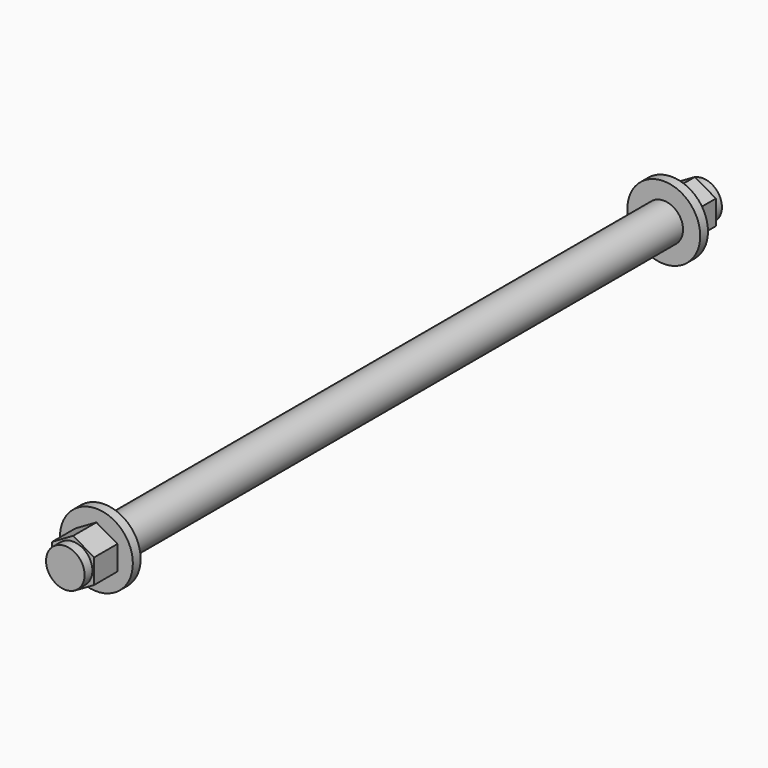
from build123d import *

# Parameters (mm, degrees)
SKETCH013_R     = 3.96875
PAD009_DEPTH    = 164
SKETCH014_R     = 7.5
PAD010_DEPTH    = 10
SKETCH015_R     = 7.5
POCKET003_DEPTH = 8
SKETCH016_R     = 7.5
SKETCH016_R_2   = 3.96875
POCKET004_DEPTH = 2
SKETCH017_R     = 7.5
PAD011_DEPTH    = 10
SKETCH018_R     = 7.5
POCKET005_DEPTH = 8
SKETCH019_R     = 7.5
SKETCH019_R_2   = 3.96875
POCKET006_DEPTH = 2


with BuildPart() as part:
    # Sketch013 → Pad009 (new body)
    with BuildSketch(Plane(origin=(500, 82, 56), x_dir=(1, 0, 0), z_dir=(0, -1, 0))):
        Circle(SKETCH013_R)
    extrude(amount=PAD009_DEPTH)

    # Sketch014 → Pad010 (new body)
    with BuildSketch(Plane(origin=(500, 82, 56), x_dir=(1, 0, 0), z_dir=(0, 1, 0))):
        Circle(SKETCH014_R)
    extrude(amount=-PAD010_DEPTH)

    # Sketch015 → Pocket003 (cut)
    with BuildSketch(Plane(origin=(500, 82, 56), x_dir=(1, 0, 0), z_dir=(0, 1, 0))):
        Circle(SKETCH015_R)
        Polygon((0, 5), (-4.330127, 2.5), (-4.330127, -2.5), (0, -5), (4.330127, -2.5), (4.330127, 2.5), align=None, mode=Mode.SUBTRACT)
    extrude(amount=-POCKET003_DEPTH, mode=Mode.SUBTRACT)

    # Sketch016 → Pocket004 (cut)
    with BuildSketch(Plane(origin=(500, 82, 56), x_dir=(1, 0, 0), z_dir=(0, 1, 0))):
        Circle(SKETCH016_R)
        Circle(SKETCH016_R_2, mode=Mode.SUBTRACT)
    extrude(amount=-POCKET004_DEPTH, mode=Mode.SUBTRACT)

    # Sketch017 → Pad011 (new body)
    with BuildSketch(Plane(origin=(500, -82, 56), x_dir=(1, 0, 0), z_dir=(0, -1, 0))):
        Circle(SKETCH017_R)
    extrude(amount=-PAD011_DEPTH)

    # Sketch018 → Pocket005 (cut)
    with BuildSketch(Plane(origin=(500, -82, 56), x_dir=(1, 0, 0), z_dir=(0, -1, 0))):
        Circle(SKETCH018_R)
        Polygon((0, 5), (-4.330127, 2.5), (-4.330127, -2.5), (0, -5), (4.330127, -2.5), (4.330127, 2.5), align=None, mode=Mode.SUBTRACT)
    extrude(amount=-POCKET005_DEPTH, mode=Mode.SUBTRACT)

    # Sketch019 → Pocket006 (cut)
    with BuildSketch(Plane(origin=(500, -82, 56), x_dir=(1, 0, 0), z_dir=(0, -1, 0))):
        Circle(SKETCH019_R)
        Circle(SKETCH019_R_2, mode=Mode.SUBTRACT)
    extrude(amount=-POCKET006_DEPTH, mode=Mode.SUBTRACT)


with BuildPart() as part_1:
    # Clone020 placement: moved
    add(part.part.moved(Location((-951.5, 0, -84))))


solid = part_1.part
